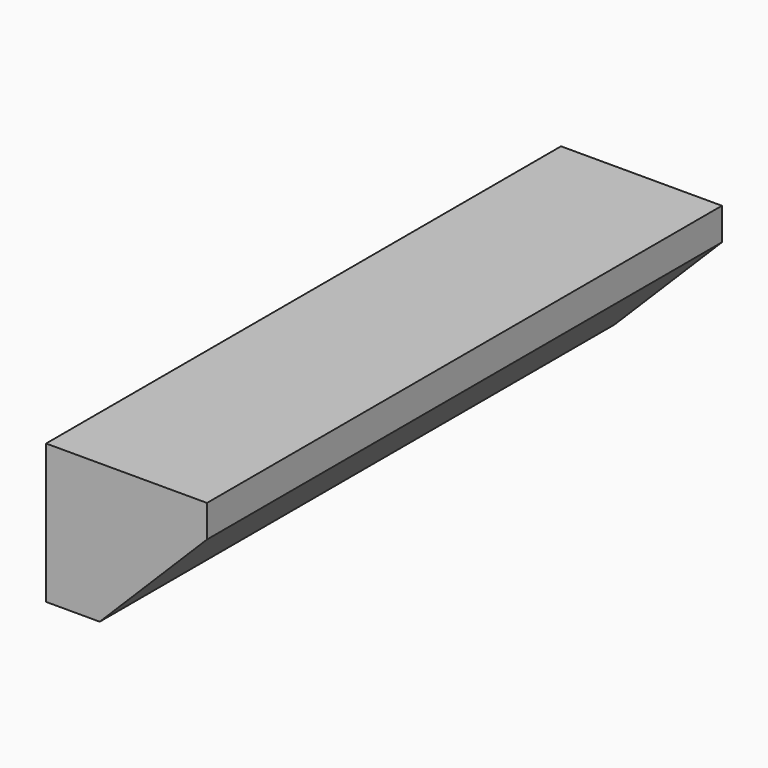
from build123d import *

# Parameters (mm, degrees)
F0_W     = 15.24
F0_H     = 3.302
F1_DEPTH = 3.81
F2_SIZE  = 2.54


with BuildPart() as f1:
    # F0 (on Right) → F1 (new body)
    with BuildSketch(Plane.YZ):
        with Locations((0, -3.477729)):
            Rectangle(F0_W, F0_H)
    extrude(amount=F1_DEPTH)

    # F2
    f2_edges = [f1.edges().sort_by_distance(p)[0] for p in [
        (3.81, 0, -5.128729),
    ]]
    chamfer(f2_edges, length=F2_SIZE)


solid = f1.part
